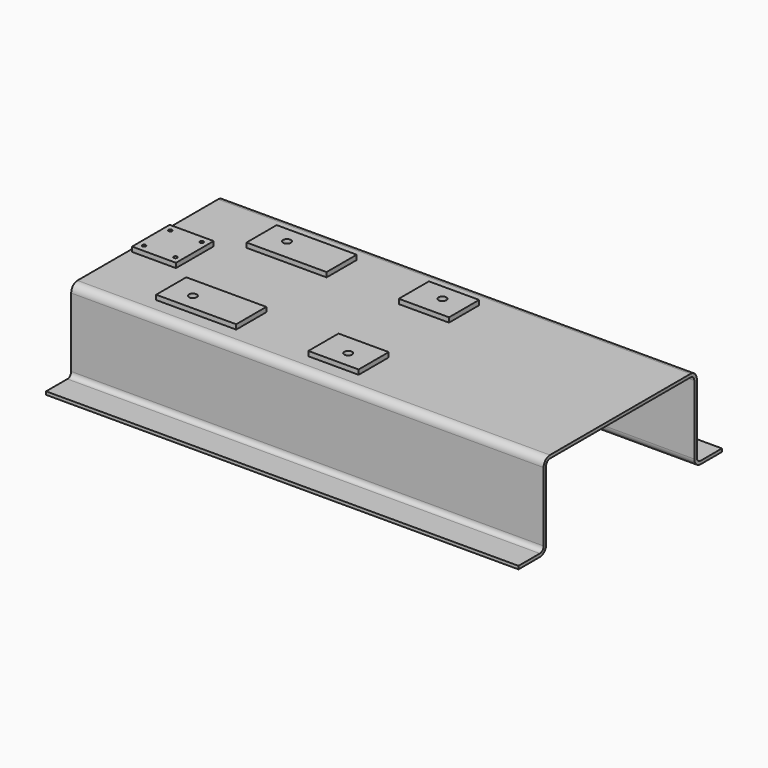
from build123d import *

# Parameters (mm, degrees)
F0_W     = 1911.35
F0_H     = 774.7
F0_W_2   = 323.85
F0_H_2   = 152.4
F0_W_3   = 203.2
F0_R     = 15.875
F1_DEPTH = 12.7
F2_DEPTH = 19.05
F3_W     = 12.7
F3_H     = 330.2
F3_H_2   = 12.7
F3_W_2   = 127
F4_DEPTH = 1911.35
F5_R     = 19.05
F6_R     = 31.75
F7_R     = 7.14375
F8_DEPTH = 19.05


with BuildPart() as f1:
    # F0 (on Top) → F1 (new body)
    with BuildSketch(Plane.XY):
        Rectangle(F0_W, F0_H)
        with Locations((-516.128, -228.6)):
            Rectangle(F0_W_2, F0_H_2, mode=Mode.SUBTRACT)
        with Locations((39.497, -228.6)):
            Rectangle(F0_W_3, F0_H_2, mode=Mode.SUBTRACT)
        with Locations((-516.128, 228.6)):
            Rectangle(F0_W_2, F0_H_2, mode=Mode.SUBTRACT)
        with Locations((39.497, 228.6)):
            Rectangle(F0_W_3, F0_H_2, mode=Mode.SUBTRACT)
        with Locations((-516.128, 228.6)):
            Rectangle(F0_W_2, F0_H_2)
        with Locations((-582.803, 238.252)):
            Circle(F0_R, mode=Mode.SUBTRACT)
        with Locations((-516.128, -228.6)):
            Rectangle(F0_W_2, F0_H_2)
        with Locations((-582.803, -238.252)):
            Circle(F0_R, mode=Mode.SUBTRACT)
        with Locations((39.497, 228.6)):
            Rectangle(F0_W_3, F0_H_2)
        with Locations((45.847, 238.252)):
            Circle(F0_R, mode=Mode.SUBTRACT)
        with Locations((39.497, -228.6)):
            Rectangle(F0_W_3, F0_H_2)
        with Locations((45.847, -238.252)):
            Circle(F0_R, mode=Mode.SUBTRACT)
    extrude(amount=-F1_DEPTH)

    # F0 (on Top) → F2 (join)
    with BuildSketch(Plane.XY):
        with Locations((-516.128, 228.6)):
            Rectangle(F0_W_2, F0_H_2)
        with Locations((-582.803, 238.252)):
            Circle(F0_R, mode=Mode.SUBTRACT)
        with Locations((-516.128, -228.6)):
            Rectangle(F0_W_2, F0_H_2)
        with Locations((-582.803, -238.252)):
            Circle(F0_R, mode=Mode.SUBTRACT)
        with Locations((39.497, 228.6)):
            Rectangle(F0_W_3, F0_H_2)
        with Locations((45.847, 238.252)):
            Circle(F0_R, mode=Mode.SUBTRACT)
        with Locations((39.497, -228.6)):
            Rectangle(F0_W_3, F0_H_2)
        with Locations((45.847, -238.252)):
            Circle(F0_R, mode=Mode.SUBTRACT)
    extrude(amount=F2_DEPTH)

    # F3 (on face) → F4 (join)
    with BuildSketch(Plane.YZ.offset(955.675)):
        with Locations((-381, -165.1)):
            Rectangle(F3_W, F3_H)
        with Locations((-381, -336.55)):
            Rectangle(F3_W, F3_H_2)
        with Locations((-450.85, -336.55)):
            Rectangle(F3_W_2, F3_H_2)
        with Locations((381, -165.1)):
            Rectangle(F3_W, F3_H)
        with Locations((450.85, -336.55)):
            Rectangle(F3_W_2, F3_H_2)
        with Locations((381, -336.55)):
            Rectangle(F3_W, F3_H_2)
    extrude(amount=-F4_DEPTH)

    # F5
    f5_edges = [f1.edges().sort_by_distance(p)[0] for p in [
        (0, -387.35, -330.2),
        (0, 387.35, -330.2),
        (0, 374.65, -12.7),
        (0, -374.65, -12.7),
    ]]
    fillet(f5_edges, radius=F5_R)

    # F6
    f6_edges = [f1.edges().sort_by_distance(p)[0] for p in [
        (0, 374.65, -342.9),
        (0, -374.65, -342.9),
        (0, 387.35, 0),
        (0, -387.35, 0),
    ]]
    fillet(f6_edges, radius=F6_R)

    # F7 (on face) → F8 (join)
    with BuildSketch(Plane.XY):
        Polygon((-765.429, -95.25), (-765.429, 0), (-765.429, 95.25), (-943.229, 95.25), (-943.229, 0), (-943.229, -95.25), align=None)
        with Locations((-917.575, -66.548)):
            Circle(F7_R, mode=Mode.SUBTRACT)
        with Locations((-790.575, -66.548)):
            Circle(F7_R, mode=Mode.SUBTRACT)
        with Locations((-917.575, 66.548)):
            Circle(F7_R, mode=Mode.SUBTRACT)
        with Locations((-790.575, 66.548)):
            Circle(F7_R, mode=Mode.SUBTRACT)
    extrude(amount=F8_DEPTH)


solid = f1.part
